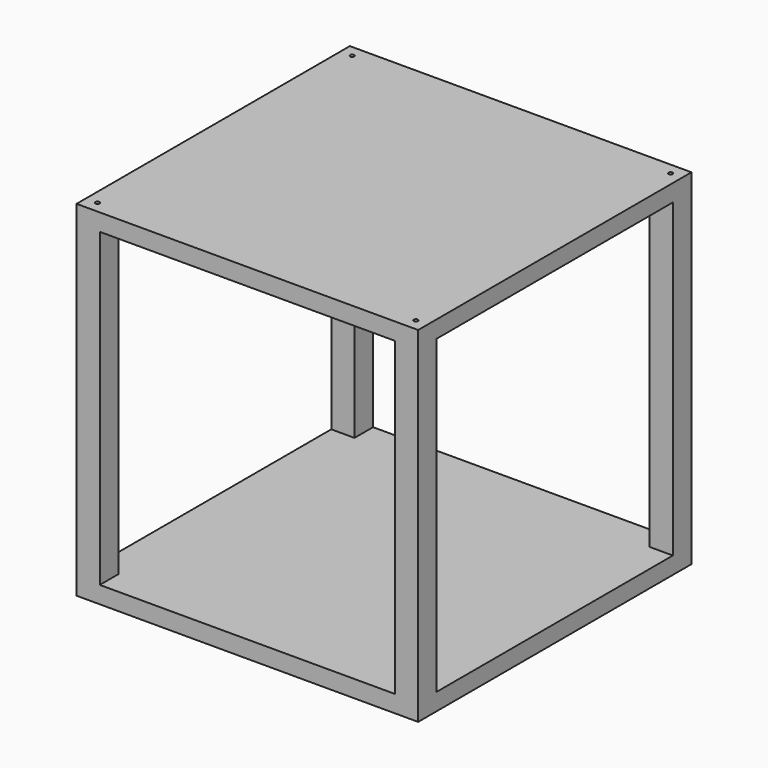
from build123d import *

# Parameters (mm, degrees)
F0_W     = 500
F0_H     = 500
F0_R     = 31.5
F1_DEPTH = 25
F2_W     = 34
F2_H     = 34
F3_DEPTH = 455
F4_W     = 34
F4_H     = 34
F5_DEPTH = 25
F6_DEPTH = 17
F7_D     = 6


with BuildPart() as f1:
    # F0 (on Top) → F1 (new body)
    with BuildSketch(Plane.XY):
        Rectangle(F0_W, F0_H)
        with Locations((-180, -180)):
            Circle(F0_R, mode=Mode.SUBTRACT)
        with Locations((180, -180)):
            Circle(F0_R, mode=Mode.SUBTRACT)
        with Locations((-180, 180)):
            Circle(F0_R, mode=Mode.SUBTRACT)
        with Locations((180, 180)):
            Circle(F0_R, mode=Mode.SUBTRACT)
        with Locations((-180, -180)):
            Circle(F0_R)
        with Locations((180, -180)):
            Circle(F0_R)
        with Locations((-180, 180)):
            Circle(F0_R)
        with Locations((180, 180)):
            Circle(F0_R)
    extrude(amount=F1_DEPTH)

    # F2 (on face) → F3 (join)
    with BuildSketch(Plane.XY.offset(25)):
        with Locations((-233, 233)):
            Rectangle(F2_W, F2_H)
        with Locations((233, 233)):
            Rectangle(F2_W, F2_H)
        with Locations((233, -233)):
            Rectangle(F2_W, F2_H)
        with Locations((-233, -233)):
            Rectangle(F2_W, F2_H)
    extrude(amount=F3_DEPTH)

    # F4 (on face) → F5 (join)
    with BuildSketch(Plane.XY.offset(480)):
        Polygon((-250, -250), (250, -250), (250, 250), (-216, 250), (-216, 216), (-250, 216), align=None)
        with Locations((-233, 233)):
            Rectangle(F4_W, F4_H)
    extrude(amount=F5_DEPTH)

    # F0 (on Top) → F6 (join)
    with BuildSketch(Plane.XY):
        with Locations((-180, -180)):
            Circle(F0_R)
        with Locations((-180, 180)):
            Circle(F0_R)
        with Locations((180, 180)):
            Circle(F0_R)
        with Locations((180, -180)):
            Circle(F0_R)
    extrude(amount=-F6_DEPTH)

    # F7 (through all)
    with Locations(Plane(origin=(0, 0, 0), x_dir=(1, 0, 0), z_dir=(0, 0, -1))):
        with Locations((-233, -233), (233, -233), (233, 233), (-233, 233)):
            Hole(F7_D / 2)


solid = f1.part
